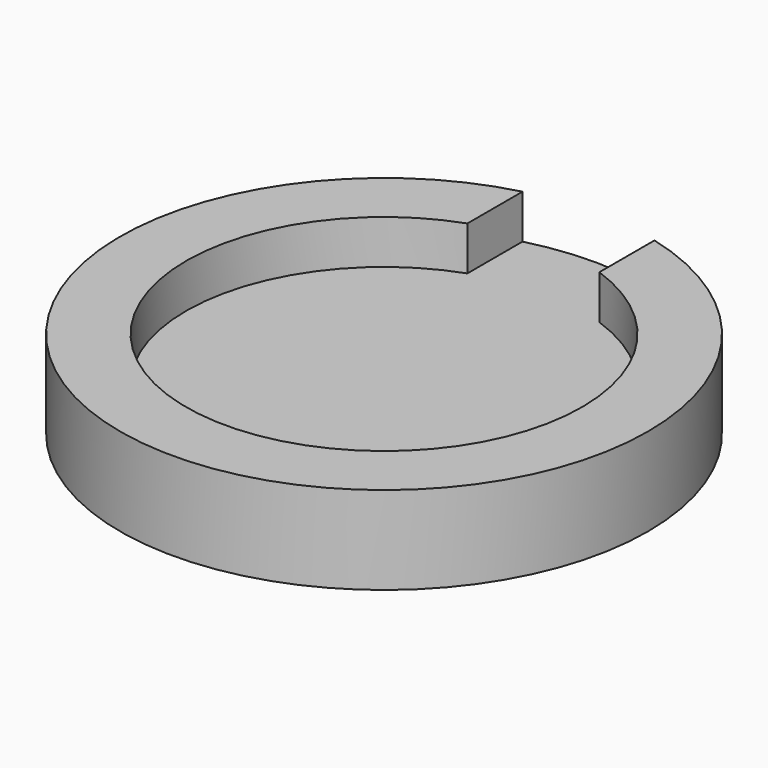
from build123d import *

# Parameters (mm, degrees)
BOX_W             = 6
BOX_H             = 19
BOX_DEPTH         = 10
CYLINDER001_R     = 9
CYLINDER001_DEPTH = 10
CYLINDER_R        = 12
CYLINDER_DEPTH    = 4


with BuildPart() as cubo:
    # Box → Box (new body)
    with BuildSketch(Plane(origin=(-3, -4, 3), x_dir=(1, 0, 0), z_dir=(0, 0, 1))):
        with Locations((3, 9.5)):
            Rectangle(BOX_W, BOX_H)
    extrude(amount=BOX_DEPTH)


with BuildPart() as obj1:
    # Cylinder001 → Cylinder001 (new body)
    with BuildSketch(Plane(origin=(0, -4, 3), x_dir=(1, 0, 0), z_dir=(0, 0, 1))):
        Circle(CYLINDER001_R)
    extrude(amount=CYLINDER001_DEPTH)


with BuildPart() as cut002:
    # Cylinder → Cylinder (new body)
    with BuildSketch(Plane(origin=(0, -4, 1), x_dir=(1, 0, 0), z_dir=(0, 0, 1))):
        Circle(CYLINDER_R)
    extrude(amount=CYLINDER_DEPTH)

    # Cut001: cut obj1
    add(obj1.part, mode=Mode.SUBTRACT)

    # Cut002: cut Cubo
    add(cubo.part, mode=Mode.SUBTRACT)


solid = cut002.part
